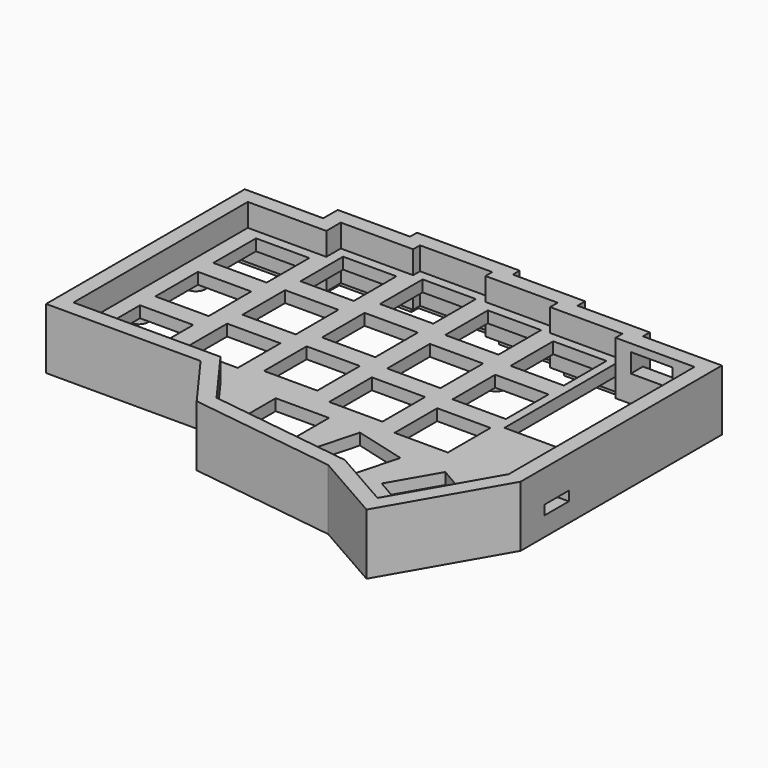
from build123d import *

# Parameters (mm, degrees)
PAD005_DEPTH        = 16
POCKET_DEPTH        = 6
POCKET012_DEPTH     = 7
SKETCH001_W         = 14
SKETCH001_H         = 14
SKETCH001_W_2       = 20.75
SKETCH001_H_2       = 36.5
POCKET013_DEPTH     = 3
MIRROREDSKETCH009_R = 2.5
PAD_DEPTH           = 5
SKETCH_W            = 8
SKETCH_H            = 2.5
POCKET014_DEPTH     = 5
SKETCH015_W         = 11
SKETCH015_H         = 5
POCKET015_DEPTH     = 7
POCKET018_DEPTH     = 2
POCKET025_DEPTH     = 5
POCKET026_DEPTH     = 1.1


with BuildPart() as part:
    # MirroredSketch002 → Pad005 (new body)
    with BuildSketch(Plane.XY):
        Polygon((12.847899, 60.749919), (33.482443, 60.749919), (33.482443, 65.499919), (52.492443, 65.499919), (52.492443, 67.749919), (79.492443, 67.749919), (79.492443, 65.499919), (98.492443, 65.499919), (98.492443, 62.999919), (117.482443, 62.999919), (117.482443, 60.749919), (138.232443, 60.749919), (138.232443, -5.348885), (121.287497, -34.793261), (102.74032, -24.222717), (63.98748, -18.955575), (53.446293, -4.5), (12.847899, -4.5), align=None)
    extrude(amount=PAD005_DEPTH)

    # MirroredSketch005 → Pocket (cut)
    with BuildSketch(Plane.XY.offset(16)):
        Polygon((16.847899, -0.5), (16.847899, 56.75), (37.482443, 56.75), (37.482443, 61.499919), (56.492443, 61.499919), (56.492443, 63.749919), (75.492443, 63.749919), (75.492443, 61.499919), (94.492443, 61.499919), (94.492443, 58.999919), (113.482443, 58.999919), (113.482443, 56.749919), (134.232443, 56.749919), (134.232443, -4.280081), (119.807428, -29.345701), (104.047316, -20.363581), (66.215158, -15.221576), (55.48, -0.5), align=None)
    extrude(amount=-POCKET_DEPTH, mode=Mode.SUBTRACT)

    # MirroredSketch006 → Pocket012 (cut)
    with BuildSketch(Plane.XY):
        Polygon((-0.5, -0.5), (-0.5, 56.75), (37.482443, 56.75), (37.482443, 61.499919), (56.492443, 61.499919), (56.492443, 63.749919), (75.492443, 63.749919), (75.492443, 61.499919), (94.492443, 61.499919), (94.492443, 58.999919), (113.482443, 58.999919), (113.482443, 56.749919), (134.232443, 56.749919), (134.232443, -4.280081), (119.807428, -29.345701), (104.047316, -20.363581), (66.215158, -15.221576), (55.48, -0.5), align=None)
    extrude(amount=POCKET012_DEPTH, mode=Mode.SUBTRACT)

    # Sketch001 → Pocket013 (cut)
    with BuildSketch(Plane.XY.offset(10)):
        with Locations((75.62, -5.79)):
            Rectangle(SKETCH001_W, SKETCH001_H)
        Polygon((91.629303, 0.089303), (105.156052, -3.52), (101.546749, -17.046749), (88.02, -13.437445), align=None)
        Polygon((116.274632, -2.66), (128.398988, -9.66), (121.398988, -21.784355), (109.276749, -14.785577), align=None)
        with Locations((28.07, 47.16)):
            Rectangle(SKETCH001_W, SKETCH001_H)
        with Locations((28.07, 9.06)):
            Rectangle(SKETCH001_W, SKETCH001_H)
        with Locations((47.12, 51.97)):
            Rectangle(SKETCH001_W, SKETCH001_H)
        with Locations((47.12, 13.87)):
            Rectangle(SKETCH001_W, SKETCH001_H)
        with Locations((66.17, 54.27)):
            Rectangle(SKETCH001_W, SKETCH001_H)
        with Locations((66.17, 16.17)):
            Rectangle(SKETCH001_W, SKETCH001_H)
        with Locations((85.22, 51.87)):
            Rectangle(SKETCH001_W, SKETCH001_H)
        with Locations((85.22, 13.77)):
            Rectangle(SKETCH001_W, SKETCH001_H)
        with Locations((104.27, 49.54)):
            Rectangle(SKETCH001_W, SKETCH001_H)
        with Locations((47.12, 32.92)):
            Rectangle(SKETCH001_W, SKETCH001_H)
        with Locations((66.17, 35.22)):
            Rectangle(SKETCH001_W, SKETCH001_H)
        with Locations((28.07, 28.11)):
            Rectangle(SKETCH001_W, SKETCH001_H)
        with Locations((104.27, 30.49)):
            Rectangle(SKETCH001_W, SKETCH001_H)
        with Locations((104.27, 11.44)):
            Rectangle(SKETCH001_W, SKETCH001_H)
        with Locations((85.22, 32.82)):
            Rectangle(SKETCH001_W, SKETCH001_H)
        with Locations((123.857443, 38.499919)):
            Rectangle(SKETCH001_W_2, SKETCH001_H_2)
    extrude(amount=-POCKET013_DEPTH, mode=Mode.SUBTRACT)

    # MirroredSketch009 → Pad (join)
    with BuildSketch(Plane.XY.offset(10)):
        with Locations((18.61, 37.509997)):
            Circle(MIRROREDSKETCH009_R)
        with Locations((18.6, 18.76)):
            Circle(MIRROREDSKETCH009_R)
        with Locations((94.55, 41.252659)):
            Circle(MIRROREDSKETCH009_R)
        with Locations((61.84, 1.51)):
            Circle(MIRROREDSKETCH009_R)
        with Locations((108.3, -6.24)):
            Circle(MIRROREDSKETCH009_R)
    extrude(amount=-PAD_DEPTH)

    # Sketch → Pocket014 (cut)
    with BuildSketch(Plane.YZ.offset(138.3)):
        with Locations((6.479556, 6.26)):
            Rectangle(SKETCH_W, SKETCH_H)
    extrude(amount=-POCKET014_DEPTH, mode=Mode.SUBTRACT)

    # Sketch015 → Pocket015 (cut)
    with BuildSketch(Plane(origin=(6, 56.73, -16.55), x_dir=(1, 0, 0), z_dir=(0, -1, 0))):
        with Locations((116.982443, 28.05)):
            Rectangle(SKETCH015_W, SKETCH015_H)
    extrude(amount=-POCKET015_DEPTH, mode=Mode.SUBTRACT)

    # MirroredSketch013 → Pocket018 (cut)
    with BuildSketch(Plane.XY):
        Polygon((-2.5, 58.75), (35.482443, 58.75), (35.482443, 63.499919), (54.492443, 63.499919), (54.492443, 65.749919), (77.492443, 65.749919), (77.492443, 63.499919), (96.492443, 63.499919), (96.492443, 60.999919), (115.482443, 60.999919), (115.482443, 58.749919), (136.232443, 58.749919), (136.232443, -4.814483), (120.547462, -32.069481), (103.393818, -22.293149), (65.101319, -17.088576), (54.463147, -2.5), (-2.5, -2.5), align=None)
        Polygon((-0.5, -0.5), (-0.5, 56.75), (37.482443, 56.75), (37.482443, 61.499919), (56.492443, 61.499919), (56.492443, 63.749919), (75.492443, 63.749919), (75.492443, 61.499919), (94.492443, 61.499919), (94.492443, 58.999919), (113.482443, 58.999919), (113.482443, 56.749919), (134.232443, 56.749919), (134.232443, -4.280081), (119.807428, -29.345701), (104.047316, -20.363581), (66.215158, -15.221576), (55.48, -0.5), align=None, mode=Mode.SUBTRACT)
    extrude(amount=POCKET018_DEPTH, mode=Mode.SUBTRACT)

    # Sketch042 → Pocket025 (cut)
    with BuildSketch(Plane(origin=(131.5, 16.2, 8.1), x_dir=(1, 0, 0), z_dir=(0, 0, 1))):
        with BuildLine():
            ThreePointArc((-1.699662, -3.023679), (-1.602072, -3.215198), (-1.401398, -3.292227))
            Line((1.461956, -3.292227), (-1.401398, -3.292227))
            ThreePointArc((1.461956, -3.292227), (1.630798, -3.203454), (1.698398, -3.025076))
            Line((1.698398, 3.034671), (1.698398, -3.025076))
            ThreePointArc((1.698398, 3.034671), (1.611903, 3.194523), (1.444123, 3.264409))
            Line((-1.429415, 3.264409), (1.444123, 3.264409))
            ThreePointArc((-1.429415, 3.264409), (-1.620509, 3.185256), (-1.699662, 2.994162))
            Line((-1.699662, -3.023679), (-1.699662, 2.994162))
        make_face()
    extrude(amount=POCKET025_DEPTH, mode=Mode.SUBTRACT)

    # Sketch045 → Pocket026 (cut)
    with BuildSketch(Plane.XY.offset(7)):
        with BuildLine():
            Line((128.626114, 20.249919), (128.626114, 12.337918))
            ThreePointArc((128.626114, 12.337918), (128.679151, 12.055368), (128.83104, 11.811285))
            Line((128.83104, 11.811285), (129.270661, 11.331936))
            ThreePointArc((129.4413, 10.893416), (129.397137, 11.128691), (129.270661, 11.331936))
            Line((129.4413, 10.893416), (129.4413, 3.123712))
            ThreePointArc((129.4413, 3.123712), (129.629969, 2.668225), (130.085456, 2.479556))
            Line((130.085456, 2.479556), (134.232443, 2.479556))
            Line((134.232443, 20.249919), (134.232443, 2.479556))
            Line((128.626114, 20.249919), (134.232443, 20.249919))
        make_face()
    extrude(amount=POCKET026_DEPTH, mode=Mode.SUBTRACT)


solid = part.part
